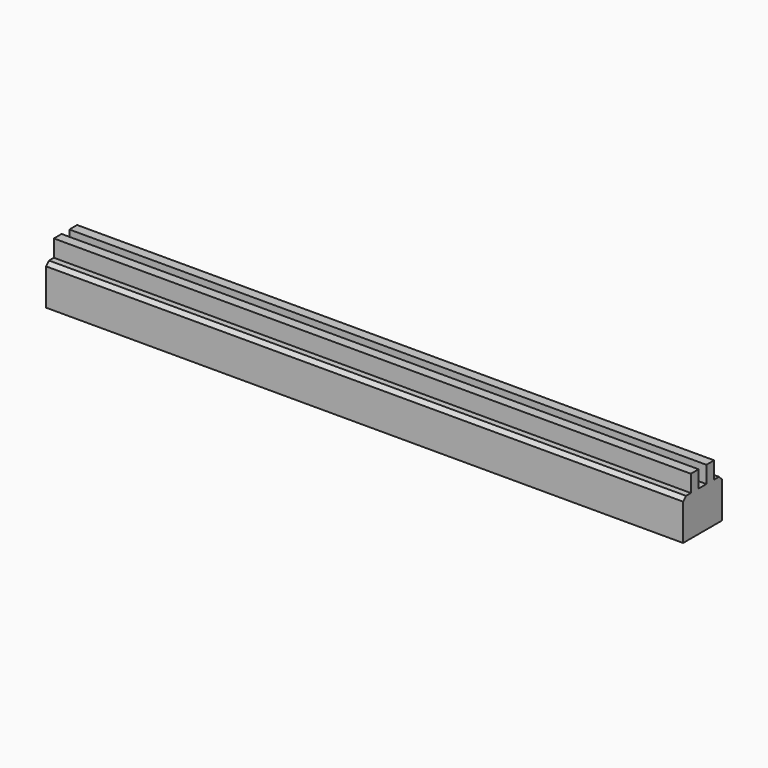
from build123d import *

# Parameters (mm, degrees)
F0_W     = 40
F0_H     = 19
F2_DEPTH = 565
F1_W     = 80
F1_H     = 100
F3_DEPTH = 25
F4_W     = 565
F4_H     = 19
F5_DEPTH = 40


with BuildPart() as f2:
    # F0 (on Right) → F2 (new body)
    with BuildSketch(Plane.YZ):
        with Locations((0, 23.5)):
            Rectangle(F0_W, F0_H)
        Polygon((20, 33), (20, 63), (17, 66), (12, 66), (12, 80), (4, 80), (4, 66), (-4, 66), (-4, 80), (-12, 80), (-12, 66), (-17, 66), (-20, 63), (-20, 33), align=None)
    extrude(amount=-F2_DEPTH)

    # F1 (on Front) → F3 (cut, symmetric)
    with BuildSketch(Plane.XZ):
        with Locations((-565, 83)):
            Rectangle(F1_W, F1_H)
    extrude(amount=F3_DEPTH, both=True, mode=Mode.SUBTRACT)

    # F4 (on face) → F5 (cut, through all)
    with BuildSketch(Plane.XZ.offset(20)):
        with Locations((-282.5, 23.5)):
            Rectangle(F4_W, F4_H)
    extrude(amount=-F5_DEPTH, mode=Mode.SUBTRACT)


solid = f2.part
